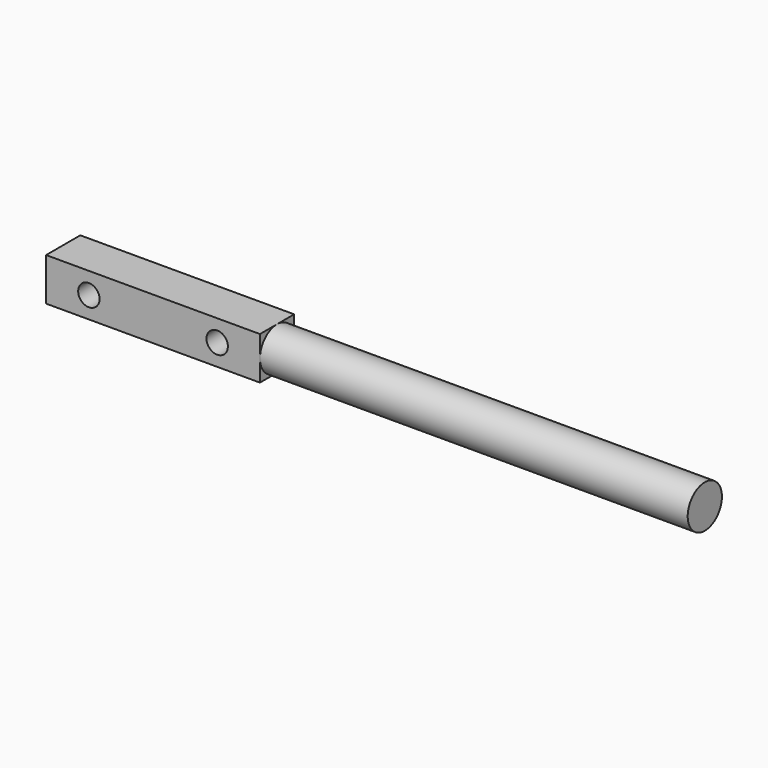
from build123d import *

# Parameters (mm, degrees)
F0_W     = 12.7
F0_H     = 12.7
F2_DEPTH = 63.5
F1_R     = 6.35
F3_DEPTH = 127
F4_R     = 3.175
F5_DEPTH = 25.4


with BuildPart() as f2:
    # F0 (on Right) → F2 (new body)
    with BuildSketch(Plane.YZ):
        Rectangle(F0_W, F0_H)
    extrude(amount=-F2_DEPTH)

    # F1 (on Right) → F3 (join)
    with BuildSketch(Plane.YZ):
        Circle(F1_R)
    extrude(amount=F3_DEPTH)

    # F4 (on face) → F5 (cut)
    with BuildSketch(Plane.XZ.offset(6.35)):
        with Locations((-50.8, 0)):
            Circle(F4_R)
        with Locations((-12.7, 0)):
            Circle(F4_R)
    extrude(amount=-F5_DEPTH, mode=Mode.SUBTRACT)


solid = f2.part
